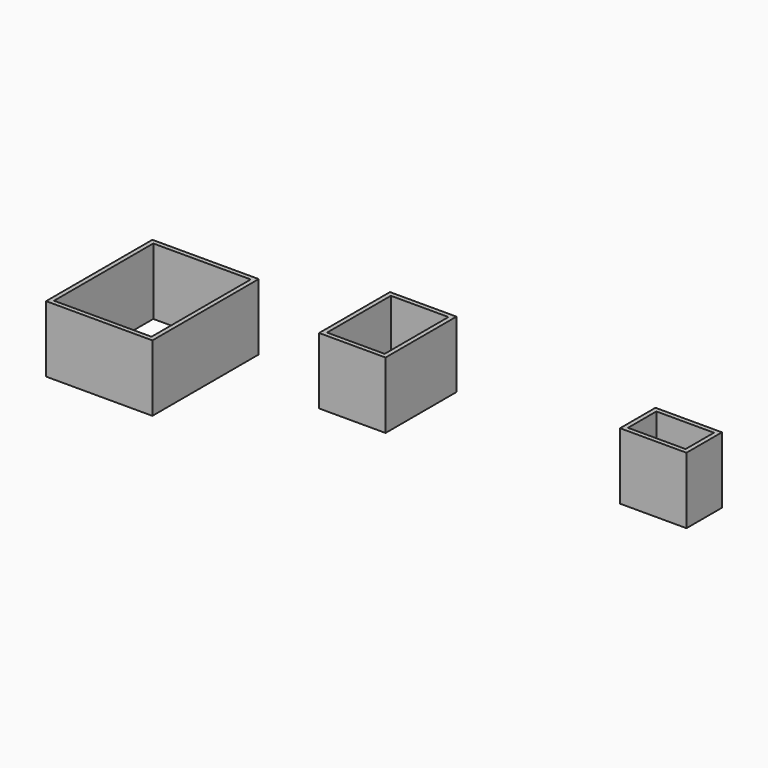
from build123d import *

# Parameters (mm, degrees)
F0_W     = 609.6
F0_H     = 762
F0_W_2   = 558.8
F0_H_2   = 711.2
F1_DEPTH = 381
F2_W     = 381
F2_H     = 508
F2_W_2   = 330.2
F2_H_2   = 457.2
F3_DEPTH = 381
F4_W     = 381
F4_H     = 254
F4_W_2   = 330.2
F4_H_2   = 203.2
F5_DEPTH = 381


with BuildPart() as f1:
    # F0 (on Top) → F1 (new body)
    with BuildSketch(Plane.XY):
        with Locations((-11.113675, -24.059143)):
            Rectangle(F0_W, F0_H)
        with Locations((-11.113675, -24.059143)):
            Rectangle(F0_W_2, F0_H_2, mode=Mode.SUBTRACT)
    extrude(amount=F1_DEPTH)


with BuildPart() as f3:
    # F2 (on Top) → F3 (new body)
    with BuildSketch(Plane.XY):
        with Locations((1022.093705, 371.535344)):
            Rectangle(F2_W, F2_H)
        with Locations((1022.093705, 371.535344)):
            Rectangle(F2_W_2, F2_H_2, mode=Mode.SUBTRACT)
    extrude(amount=F3_DEPTH)


with BuildPart() as f5:
    # F4 (on Top) → F5 (new body)
    with BuildSketch(Plane.XY):
        with Locations((2651.157399, 365.232877)):
            Rectangle(F4_W, F4_H)
        with Locations((2651.157399, 365.232877)):
            Rectangle(F4_W_2, F4_H_2, mode=Mode.SUBTRACT)
    extrude(amount=F5_DEPTH)


solid = Compound([f1.part, f3.part, f5.part])
